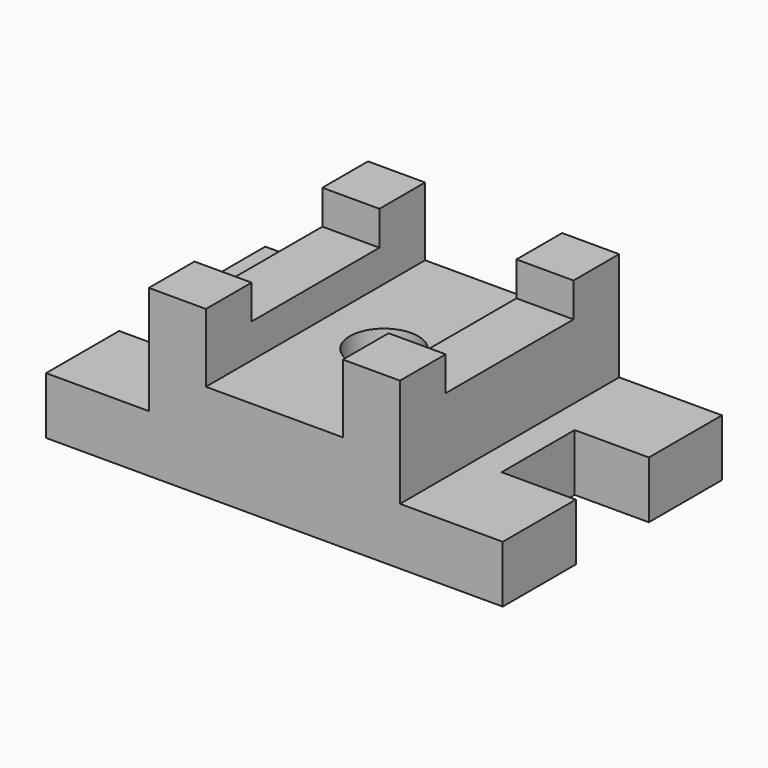
from build123d import *

# Parameters (mm, degrees)
F0_W     = 31.75
F0_H     = 31.75
F0_H_2   = 88.9
F0_R     = 19.05
F1_DEPTH = 31.75
F2_DEPTH = 53.975
F3_DEPTH = 73.025
F4_DEPTH = 92.075


with BuildPart() as f1:
    # F0 (on Top) → F1 (new body)
    with BuildSketch(Plane.XY):
        Polygon((-69.85, 76.2), (-127, 76.2), (-127, 25.4), (-85.725, 25.4), (-85.725, -25.4), (-127, -25.4), (-127, -76.2), (-69.85, -76.2), (-69.85, -44.45), (-69.85, 44.45), align=None)
        Polygon((127, 76.2), (69.85, 76.2), (69.85, 44.45), (69.85, -44.45), (69.85, -76.2), (127, -76.2), (127, -25.4), (85.725, -25.4), (85.725, 25.4), (127, 25.4), align=None)
        with Locations((-53.975, 60.325)):
            Rectangle(F0_W, F0_H)
        with Locations((-53.975, 0)):
            Rectangle(F0_W, F0_H_2)
        Polygon((38.1, 76.2), (-38.1, 76.2), (-38.1, 44.45), (-38.1, -44.45), (-38.1, -76.2), (38.1, -76.2), (38.1, -44.45), (38.1, 44.45), align=None)
        Circle(F0_R, mode=Mode.SUBTRACT)
        with Locations((-53.975, -60.325)):
            Rectangle(F0_W, F0_H)
        with Locations((53.975, 60.325)):
            Rectangle(F0_W, F0_H)
        with Locations((53.975, 0)):
            Rectangle(F0_W, F0_H_2)
        with Locations((53.975, -60.325)):
            Rectangle(F0_W, F0_H)
    extrude(amount=F1_DEPTH)

    # F0 (on Top) → F2 (join)
    with BuildSketch(Plane.XY):
        with Locations((53.975, 60.325)):
            Rectangle(F0_W, F0_H)
        with Locations((53.975, 0)):
            Rectangle(F0_W, F0_H_2)
        with Locations((53.975, -60.325)):
            Rectangle(F0_W, F0_H)
        Polygon((38.1, 76.2), (-38.1, 76.2), (-38.1, 44.45), (-38.1, -44.45), (-38.1, -76.2), (38.1, -76.2), (38.1, -44.45), (38.1, 44.45), align=None)
        Circle(F0_R, mode=Mode.SUBTRACT)
        with Locations((-53.975, -60.325)):
            Rectangle(F0_W, F0_H)
        with Locations((-53.975, 0)):
            Rectangle(F0_W, F0_H_2)
        with Locations((-53.975, 60.325)):
            Rectangle(F0_W, F0_H)
    extrude(amount=F2_DEPTH)

    # F0 (on Top) → F3 (join)
    with BuildSketch(Plane.XY):
        with Locations((-53.975, 0)):
            Rectangle(F0_W, F0_H_2)
        with Locations((53.975, 0)):
            Rectangle(F0_W, F0_H_2)
        with Locations((-53.975, 60.325)):
            Rectangle(F0_W, F0_H)
        with Locations((-53.975, -60.325)):
            Rectangle(F0_W, F0_H)
        with Locations((53.975, 60.325)):
            Rectangle(F0_W, F0_H)
        with Locations((53.975, -60.325)):
            Rectangle(F0_W, F0_H)
    extrude(amount=F3_DEPTH)

    # F0 (on Top) → F4 (join)
    with BuildSketch(Plane.XY):
        with Locations((-53.975, 60.325)):
            Rectangle(F0_W, F0_H)
        with Locations((-53.975, -60.325)):
            Rectangle(F0_W, F0_H)
        with Locations((53.975, 60.325)):
            Rectangle(F0_W, F0_H)
        with Locations((53.975, -60.325)):
            Rectangle(F0_W, F0_H)
    extrude(amount=F4_DEPTH)


solid = f1.part
